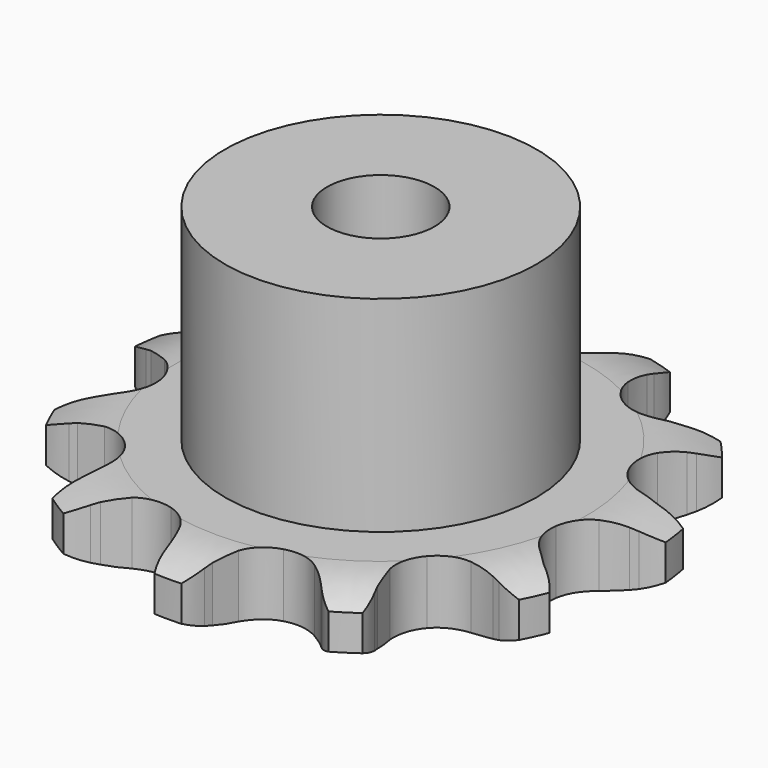
from build123d import *

# Parameters (mm, degrees)
PAD_DEPTH         = 5.9
SKETCH001_R       = 14.5
PAD001_DEPTH      = 25
SKETCH002_R       = 5
POCKET_DEPTH      = 0.001
POCKET_DEPTH_BACK = -25.001


with BuildPart() as part:
    # Sprocket → Pad (new body)
    with BuildSketch(Plane.XY):
        with BuildLine():
            ThreePointArc((-7.435559, 25.323187), (-5.79799, 24.139658), (-4.598673, 22.513615))
            Line((-4.598673, 22.513615), (-4.266191, 21.876158))
            ThreePointArc((-4.266191, 21.876158), (-3.682493, 20.895934), (-2.992303, 19.987541))
            ThreePointArc((-2.992303, 19.987541), (-1.647785, 18.968509), (0, 18.606631))
            ThreePointArc((0, 18.606631), (1.647785, 18.968509), (2.992303, 19.987541))
            ThreePointArc((2.992303, 19.987541), (3.682493, 20.895934), (4.266191, 21.876158))
            Line((4.266191, 21.876158), (4.598673, 22.513615))
            ThreePointArc((4.598673, 22.513615), (5.79799, 24.139658), (7.435559, 25.323187))
            ThreePointArc((7.435559, 25.323187), (8.173305, 23.442202), (8.303129, 21.425889))
            Line((8.303129, 21.425889), (8.238196, 20.709872))
            ThreePointArc((8.238196, 20.709872), (8.199285, 19.569684), (8.288795, 18.43235))
            ThreePointArc((8.288795, 18.43235), (8.868945, 16.848185), (10.059504, 15.652894))
            ThreePointArc((10.059504, 15.652894), (11.641356, 15.066465), (13.323366, 15.196829))
            Line((13.323366, 15.196829), (15.416092, 16.096918))
            ThreePointArc((15.416092, 16.096918), (15.725098, 16.280712), (16.040429, 16.453428))
            ThreePointArc((16.040429, 16.453428), (17.928464, 17.172942), (19.945939, 17.283254))
            ThreePointArc((19.945939, 17.283254), (19.549633, 15.302013), (18.568747, 13.535594))
            Line((18.568747, 13.535594), (18.127013, 12.968348))
            ThreePointArc((18.127013, 12.968348), (17.477848, 12.030198), (16.938259, 11.025019))
            ThreePointArc((16.938259, 11.025019), (16.569848, 9.378682), (16.925187, 7.729474))
            ThreePointArc((16.925187, 7.729474), (17.938878, 6.380925), (19.424354, 5.58123))
            Line((19.424354, 5.58123), (21.671493, 5.207021))
            ThreePointArc((21.671493, 5.207021), (22.030811, 5.194577), (22.389463, 5.169394))
            ThreePointArc((22.389463, 5.169394), (24.366777, 4.753939), (26.123624, 3.75601))
            ThreePointArc((26.123624, 3.75601), (24.719091, 2.303543), (22.938919, 1.347844))
            Line((22.938919, 1.347844), (22.260632, 1.109465))
            ThreePointArc((22.260632, 1.109465), (21.207317, 0.671209), (20.209946, 0.117322))
            ThreePointArc((20.209946, 0.117322), (19.009941, -1.068487), (18.417242, -2.648))
            ThreePointArc((18.417242, -2.648), (18.540933, -4.330514), (19.358248, -5.806369))
            Line((19.358248, -5.806369), (21.046348, -7.336069))
            ThreePointArc((21.046348, -7.336069), (21.341898, -7.5408), (21.63, -7.755887))
            ThreePointArc((21.63, -7.755887), (23.068811, -9.174406), (24.007244, -10.963741))
            ThreePointArc((24.007244, -10.963741), (22.040412, -11.426285), (20.026146, -11.267837))
            Line((20.026146, -11.267837), (19.326658, -11.101665))
            ThreePointArc((19.326658, -11.101665), (18.203613, -10.900885), (17.065117, -10.827624))
            ThreePointArc((17.065117, -10.827624), (15.414513, -11.176419), (14.061954, -12.184752))
            ThreePointArc((14.061954, -12.184752), (13.256373, -13.667045), (13.146034, -15.350487))
            Line((13.146034, -15.350487), (13.739136, -17.550008))
            ThreePointArc((13.739136, -17.550008), (13.877083, -17.882026), (14.003165, -18.218728))
            ThreePointArc((14.003165, -18.218728), (14.44666, -20.189942), (14.268733, -22.202581))
            ThreePointArc((14.268733, -22.202581), (12.364058, -21.528349), (10.755213, -20.30606))
            Line((10.755213, -20.30606), (10.256606, -19.788095))
            ThreePointArc((10.256606, -19.788095), (9.420391, -19.012024), (8.502234, -18.334876))
            ThreePointArc((8.502234, -18.334876), (6.925085, -17.735916), (5.242094, -17.852932))
            ThreePointArc((5.242094, -17.852932), (3.763008, -18.664386), (2.760048, -20.020934))
            Line((2.760048, -20.020934), (2.069846, -22.191944))
            ThreePointArc((2.069846, -22.191944), (2.006393, -22.545835), (1.930424, -22.897252))
            ThreePointArc((1.930424, -22.897252), (1.237797, -24.795314), (0, -26.392259))
            ThreePointArc((0, -26.392259), (-1.237797, -24.795314), (-1.930424, -22.897252))
            Line((-1.930424, -22.897252), (-2.069846, -22.191944))
            ThreePointArc((-2.069846, -22.191944), (-2.353739, -21.08698), (-2.760048, -20.020934))
            ThreePointArc((-2.760048, -20.020934), (-3.763008, -18.664386), (-5.242094, -17.852932))
            ThreePointArc((-5.242094, -17.852932), (-6.925085, -17.735916), (-8.502234, -18.334876))
            Line((-8.502234, -18.334876), (-10.256606, -19.788095))
            ThreePointArc((-10.256606, -19.788095), (-10.501314, -20.051501), (-10.755213, -20.30606))
            ThreePointArc((-10.755213, -20.30606), (-12.364058, -21.528349), (-14.268733, -22.202581))
            ThreePointArc((-14.268733, -22.202581), (-14.44666, -20.189942), (-14.003165, -18.218728))
            Line((-14.003165, -18.218728), (-13.739136, -17.550008))
            ThreePointArc((-13.739136, -17.550008), (-13.380574, -16.466969), (-13.146034, -15.350487))
            ThreePointArc((-13.146034, -15.350487), (-13.256373, -13.667045), (-14.061954, -12.184752))
            ThreePointArc((-14.061954, -12.184752), (-15.414513, -11.176419), (-17.065117, -10.827624))
            Line((-17.065117, -10.827624), (-19.326658, -11.101665))
            ThreePointArc((-19.326658, -11.101665), (-19.674927, -11.190957), (-20.026146, -11.267837))
            ThreePointArc((-20.026146, -11.267837), (-22.040412, -11.426285), (-24.007244, -10.963741))
            ThreePointArc((-24.007244, -10.963741), (-23.068811, -9.174406), (-21.63, -7.755887))
            Line((-21.63, -7.755887), (-21.046348, -7.336069))
            ThreePointArc((-21.046348, -7.336069), (-20.159171, -6.618812), (-19.358248, -5.806369))
            ThreePointArc((-19.358248, -5.806369), (-18.540933, -4.330514), (-18.417242, -2.648))
            ThreePointArc((-18.417242, -2.648), (-19.009941, -1.068487), (-20.209946, 0.117322))
            Line((-20.209946, 0.117322), (-22.260632, 1.109465))
            ThreePointArc((-22.260632, 1.109465), (-22.60189, 1.222637), (-22.938919, 1.347844))
            ThreePointArc((-22.938919, 1.347844), (-24.719091, 2.303543), (-26.123624, 3.75601))
            ThreePointArc((-26.123624, 3.75601), (-24.366777, 4.753939), (-22.389463, 5.169394))
            Line((-22.389463, 5.169394), (-21.671493, 5.207021))
            ThreePointArc((-21.671493, 5.207021), (-20.537373, 5.330772), (-19.424354, 5.58123))
            ThreePointArc((-19.424354, 5.58123), (-17.938878, 6.380925), (-16.925187, 7.729474))
            ThreePointArc((-16.925187, 7.729474), (-16.569848, 9.378682), (-16.938259, 11.025019))
            Line((-16.938259, 11.025019), (-18.127013, 12.968348))
            ThreePointArc((-18.127013, 12.968348), (-18.352913, 13.248052), (-18.568747, 13.535594))
            ThreePointArc((-18.568747, 13.535594), (-19.549633, 15.302013), (-19.945939, 17.283254))
            ThreePointArc((-19.945939, 17.283254), (-17.928464, 17.172942), (-16.040429, 16.453428))
            Line((-16.040429, 16.453428), (-15.416092, 16.096918))
            ThreePointArc((-15.416092, 16.096918), (-14.395105, 15.587873), (-13.323366, 15.196829))
            ThreePointArc((-13.323366, 15.196829), (-11.641356, 15.066465), (-10.059504, 15.652894))
            ThreePointArc((-10.059504, 15.652894), (-8.868945, 16.848185), (-8.288795, 18.43235))
            Line((-8.288795, 18.43235), (-8.238196, 20.709872))
            ThreePointArc((-8.238196, 20.709872), (-8.277015, 21.067304), (-8.303129, 21.425889))
            ThreePointArc((-8.303129, 21.425889), (-8.173305, 23.442202), (-7.435559, 25.323187))
        make_face()
    extrude(amount=PAD_DEPTH)

    # Sketch → Groove (revolve, cut)
    with BuildSketch(Plane.XZ):
        with BuildLine():
            Line((19.133431, 0), (24.8, 0))
            Line((30.466569, 0), (24.8, 0))
            Line((30.466569, 5.9), (30.466569, 0))
            Line((24.8, 5.9), (30.466569, 5.9))
            Line((19.133431, 5.9), (24.8, 5.9))
            ThreePointArc((24.8, 4.6), (22.04032, 5.570833), (19.133431, 5.9))
            Line((24.8, 1.3), (24.8, 4.6))
            ThreePointArc((19.133431, 0), (22.04032, 0.329167), (24.8, 1.3))
        make_face()
    revolve(axis=Axis((0, 0, 0), (0, 0, 1)), mode=Mode.SUBTRACT)

    # Sketch001 → Pad001 (join)
    with BuildSketch(Plane.XY):
        Circle(SKETCH001_R)
    extrude(amount=PAD001_DEPTH)

    # Sketch002 → Pocket (cut, two sides)
    with BuildSketch(Plane.XY) as pocket_sk:
        Circle(SKETCH002_R)
    extrude(amount=-POCKET_DEPTH, mode=Mode.SUBTRACT)
    extrude(pocket_sk.sketch, amount=-POCKET_DEPTH_BACK, mode=Mode.SUBTRACT)


solid = part.part
